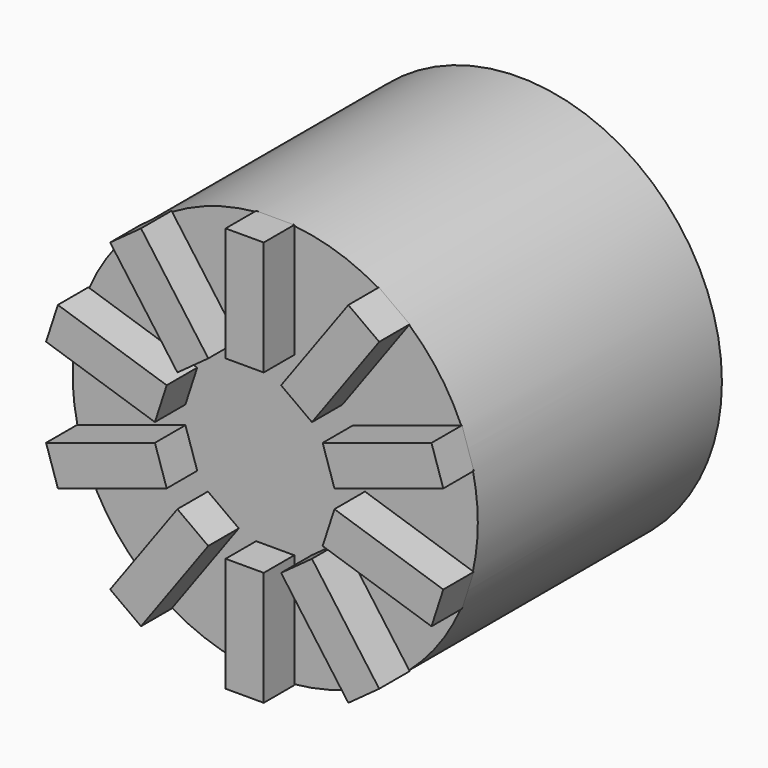
from build123d import *

# Parameters (mm, degrees)
F0_R     = 33.732281
F1_DEPTH = 25.4
F2_W     = 6.35
F2_H     = 19.05
F3_DEPTH = 6.35


with BuildPart() as f1:
    # F0 (on Front) → F1 (new body, symmetric)
    with BuildSketch(Plane.XZ):
        Circle(F0_R)
    extrude(amount=F1_DEPTH, both=True)

    # F2 (on face) → F3 (join)
    with BuildSketch(Plane.XZ.offset(25.4)):
        with Locations((0, 24.207281)):
            Rectangle(F2_W, F2_H)
        Polygon((-11.198657, 10.011996), (-6.061399, 13.744433), (-17.258708, 29.156206), (-22.395966, 25.42377), align=None)
        Polygon((-14.944808, 1.51747), (-12.98255, 7.556679), (-31.100176, 13.443452), (-33.062434, 7.404244), align=None)
        Polygon((-12.98255, -7.556679), (-14.944808, -1.51747), (-33.062434, -7.404244), (-31.100176, -13.443452), align=None)
        Polygon((-6.061399, -13.744433), (-11.198657, -10.011996), (-22.395966, -25.42377), (-17.258708, -29.156206), align=None)
        with Locations((0, -24.207281)):
            Rectangle(F2_W, F2_H)
        Polygon((11.198657, -10.011996), (6.061399, -13.744433), (17.258708, -29.156206), (22.395966, -25.42377), align=None)
        Polygon((14.944808, -1.51747), (12.98255, -7.556679), (31.100176, -13.443452), (33.062434, -7.404244), align=None)
        Polygon((12.98255, 7.556679), (14.944808, 1.51747), (33.062434, 7.404244), (31.100176, 13.443452), align=None)
        Polygon((6.061399, 13.744433), (11.198657, 10.011996), (22.395966, 25.42377), (17.258708, 29.156206), align=None)
    extrude(amount=F3_DEPTH)


solid = f1.part
